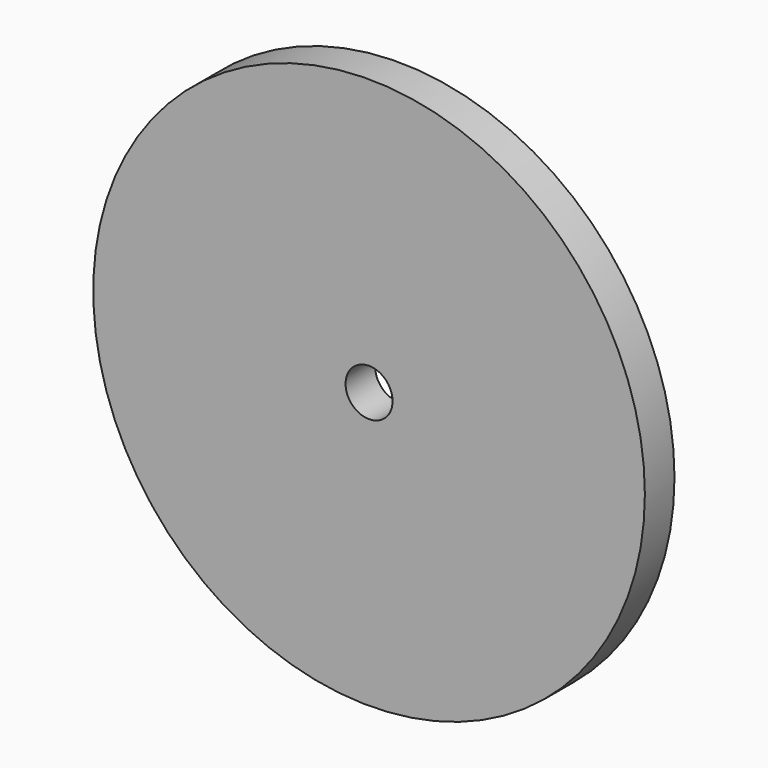
from build123d import *

# Parameters (mm, degrees)
SKETCH_R        = 74.5
PAD_DEPTH       = 10
SKETCH001_R     = 6.35
POCKET_DEPTH    = 10.001
SKETCH002_R     = 65
SKETCH002_R_2   = 34.5
POCKET001_DEPTH = 6


with BuildPart() as part:
    # Sketch → Pad (new body)
    with BuildSketch(Plane.XZ):
        Circle(SKETCH_R)
    extrude(amount=PAD_DEPTH)

    # Sketch001 (on Face2 of Pad) → Pocket (cut, through all)
    with BuildSketch(Plane(origin=(0, 0, 0), x_dir=(1, 0, 0), z_dir=(0, 1, 0))):
        Circle(SKETCH001_R)
    extrude(amount=-POCKET_DEPTH, mode=Mode.SUBTRACT)

    # Sketch002 (on Face2 of Pocket) → Pocket001 (cut)
    with BuildSketch(Plane(origin=(0, 0, 0), x_dir=(1, 0, 0), z_dir=(0, 1, 0))):
        Circle(SKETCH002_R)
        Circle(SKETCH002_R_2, mode=Mode.SUBTRACT)
    extrude(amount=-POCKET001_DEPTH, mode=Mode.SUBTRACT)


solid = part.part
